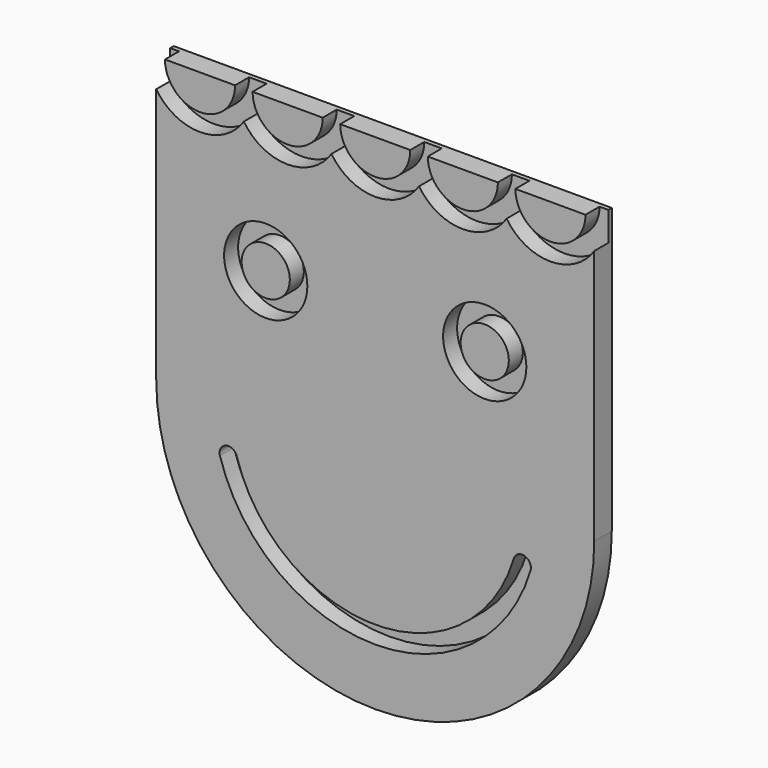
from build123d import *

# Parameters (mm, degrees)
F1_DEPTH = 127
F2_R     = 241.3
F2_R_2   = 139.7
F3_DEPTH = 101.6
F4_R     = 139.7
F5_DEPTH = 101.6


with BuildPart() as f1:
    # F0 (on Front) → F1 (new body)
    with BuildSketch(Plane.XZ):
        with BuildLine():
            Line((-1270, 1651), (-1270, 0))
            ThreePointArc((-1270, 0), (0, -1270), (1270, 0))
            Line((1270, 0), (1270, 1651))
            Line((1270, 1651), (-1270, 1651))
        make_face()
    extrude(amount=F1_DEPTH)

    # F2 (on face) → F3 (cut)
    with BuildSketch(Plane.XZ.offset(127)):
        with BuildLine():
            ThreePointArc((-1219.2, 1651), (-1270, 1701.8), (-1320.8, 1651))
            ThreePointArc((-1320.8, 1651), (-1103.988181, 1359.176218), (-762, 1482.515461))
            ThreePointArc((-762, 1482.515461), (-799.823782, 1563.011819), (-812.8, 1651))
            ThreePointArc((-812.8, 1651), (-1016, 1447.8), (-1219.2, 1651))
        make_face()
        with BuildLine():
            ThreePointArc((-812.8, 1651), (-799.823782, 1563.011819), (-762, 1482.515461))
            ThreePointArc((-762, 1482.515461), (-724.176218, 1563.011819), (-711.2, 1651))
            ThreePointArc((-711.2, 1651), (-762, 1701.8), (-812.8, 1651))
        make_face()
        with BuildLine():
            ThreePointArc((-711.2, 1651), (-724.176218, 1563.011819), (-762, 1482.515461))
            ThreePointArc((-762, 1482.515461), (-508, 1346.2), (-254, 1482.515461))
            ThreePointArc((-254, 1482.515461), (-291.823782, 1563.011819), (-304.8, 1651))
            ThreePointArc((-304.8, 1651), (-508, 1447.8), (-711.2, 1651))
        make_face()
        with BuildLine():
            ThreePointArc((-304.8, 1651), (-291.823782, 1563.011819), (-254, 1482.515461))
            ThreePointArc((-254, 1482.515461), (-216.176218, 1563.011819), (-203.2, 1651))
            ThreePointArc((-203.2, 1651), (-254, 1701.8), (-304.8, 1651))
        make_face()
        with BuildLine():
            ThreePointArc((-203.2, 1651), (-216.176218, 1563.011819), (-254, 1482.515461))
            ThreePointArc((-254, 1482.515461), (0, 1346.2), (254, 1482.515461))
            ThreePointArc((254, 1482.515461), (216.176218, 1563.011819), (203.2, 1651))
            ThreePointArc((203.2, 1651), (0, 1447.8), (-203.2, 1651))
        make_face()
        with BuildLine():
            ThreePointArc((203.2, 1651), (216.176218, 1563.011819), (254, 1482.515461))
            ThreePointArc((254, 1482.515461), (291.823782, 1563.011819), (304.8, 1651))
            ThreePointArc((304.8, 1651), (254, 1701.8), (203.2, 1651))
        make_face()
        with BuildLine():
            ThreePointArc((304.8, 1651), (291.823782, 1563.011819), (254, 1482.515461))
            ThreePointArc((254, 1482.515461), (508, 1346.2), (762, 1482.515461))
            ThreePointArc((762, 1482.515461), (724.176218, 1563.011819), (711.2, 1651))
            ThreePointArc((711.2, 1651), (508, 1447.8), (304.8, 1651))
        make_face()
        with BuildLine():
            ThreePointArc((711.2, 1651), (724.176218, 1563.011819), (762, 1482.515461))
            ThreePointArc((762, 1482.515461), (799.823782, 1563.011819), (812.8, 1651))
            ThreePointArc((812.8, 1651), (762, 1701.8), (711.2, 1651))
        make_face()
        with BuildLine():
            ThreePointArc((812.8, 1651), (799.823782, 1563.011819), (762, 1482.515461))
            ThreePointArc((762, 1482.515461), (1103.988181, 1359.176218), (1320.8, 1651))
            ThreePointArc((1320.8, 1651), (1270, 1701.8), (1219.2, 1651))
            ThreePointArc((1219.2, 1651), (1016, 1447.8), (812.8, 1651))
        make_face()
        with BuildLine():
            ThreePointArc((-803.259505, -239.485714), (-866.456185, -205.317606), (-900.624294, -268.514286))
            ThreePointArc((-900.624294, -268.514286), (0, -939.8), (900.624294, -268.514286))
            ThreePointArc((900.624294, -268.514286), (866.456185, -205.317606), (803.259505, -239.485714))
            ThreePointArc((803.259505, -239.485714), (0, -838.2), (-803.259505, -239.485714))
        make_face()
        with Locations((-635, 762)):
            Circle(F2_R)
        with Locations((-635, 762)):
            Circle(F2_R_2, mode=Mode.SUBTRACT)
        with Locations((635, 762)):
            Circle(F2_R)
        with Locations((635, 762)):
            Circle(F2_R_2, mode=Mode.SUBTRACT)
    extrude(amount=-F3_DEPTH, mode=Mode.SUBTRACT)

    # F4 (on face) → F5 (join)
    with BuildSketch(Plane.XZ.offset(25.4)):
        with Locations((-635, 762)):
            Circle(F4_R)
    extrude(amount=F5_DEPTH)


solid = f1.part
